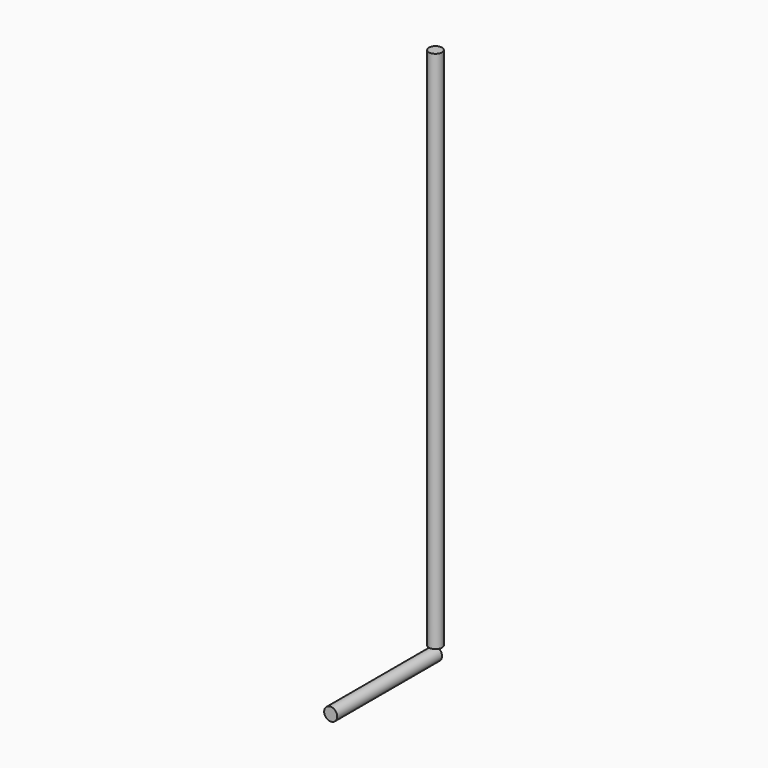
from build123d import *

# Parameters (mm, degrees)
F0_R     = 25.4
F1_DEPTH = 2032
F2_R     = 25.4
F3_DEPTH = 508


with BuildPart() as f1:
    # F0 (on Top) → F1 (new body)
    with BuildSketch(Plane.XY):
        Circle(F0_R)
    extrude(amount=F1_DEPTH)


with BuildPart() as f3:
    # F2 (on Front) → F3 (new body)
    with BuildSketch(Plane.XZ):
        with Locations((0, -28.432905)):
            Circle(F2_R)
    extrude(amount=F3_DEPTH)


solid = Compound([f1.part, f3.part])
